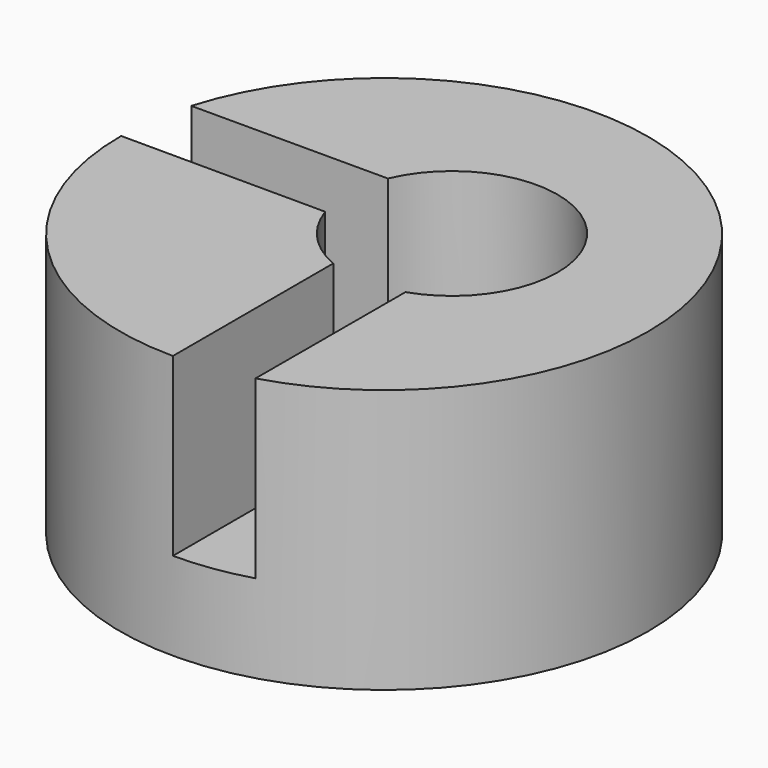
from build123d import *

# Parameters (mm, degrees)
F0_R     = 15
F1_DEPTH = 15
F3_DEPTH = 10
F4_R     = 6
F5_DEPTH = 10


with BuildPart() as f1:
    # F0 (on Top) → F1 (new body)
    with BuildSketch(Plane.XY):
        Circle(F0_R)
    extrude(amount=-F1_DEPTH)

    # F2 (on Top) → F3 (cut, symmetric)
    with BuildSketch(Plane.XY):
        Polygon((4.235221, 4.27539), (-15.764779, 4.27539), (-15.764779, 0.07539), (-0.001056, 0.035212), (-0.001056, -19.964788), (4.198944, -19.964788), align=None)
    extrude(amount=F3_DEPTH, both=True, mode=Mode.SUBTRACT)

    # F4 (on Top) → F5 (cut, symmetric)
    with BuildSketch(Plane.XY):
        with Locations((2.316362, 1.923726)):
            Circle(F4_R)
    extrude(amount=F5_DEPTH, both=True, mode=Mode.SUBTRACT)


solid = f1.part
